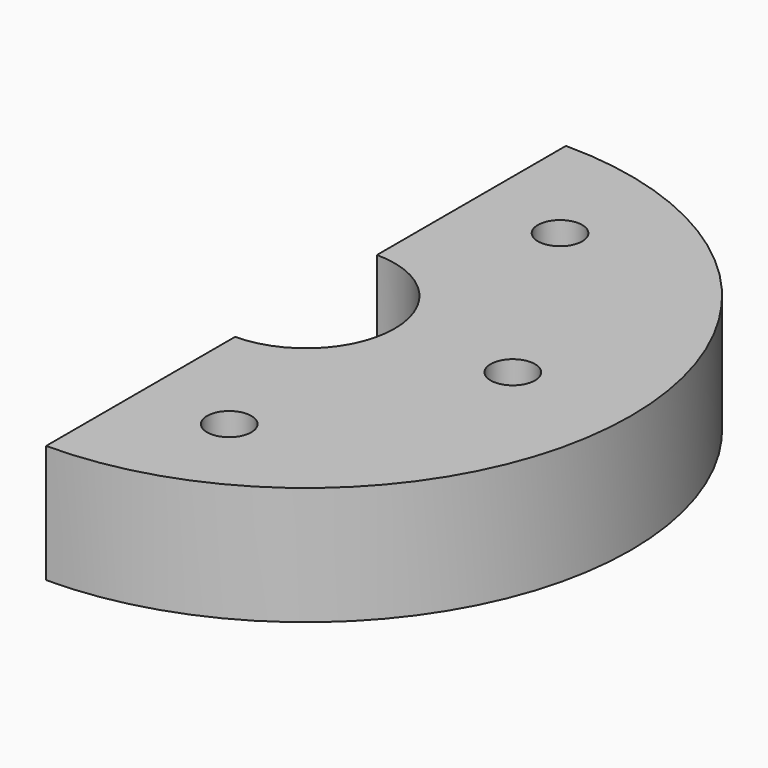
from build123d import *

# Parameters (mm, degrees)
F1_DEPTH = 25.4
F2_R     = 4.7675
F3_DEPTH = 12.7


with BuildPart() as f1:
    # F0 (on Top) → F1 (new body)
    with BuildSketch(Plane.XY):
        with BuildLine():
            Line((0, -19.05), (0, -69.85))
            ThreePointArc((0, -69.85), (69.85, 0), (0, 69.85))
            Line((0, 69.85), (0, 19.05))
            ThreePointArc((0, 19.05), (19.05, 0), (0, -19.05))
        make_face()
    extrude(amount=F1_DEPTH)

    # F2 (on face) → F3 (cut)
    with BuildSketch(Plane.XY.offset(25.4)):
        with Locations((19.05, 44.45)):
            Circle(F2_R)
        with Locations((19.05, -44.45)):
            Circle(F2_R)
        with Locations((44.45, 0)):
            Circle(F2_R)
    extrude(amount=-F3_DEPTH, mode=Mode.SUBTRACT)


solid = f1.part
